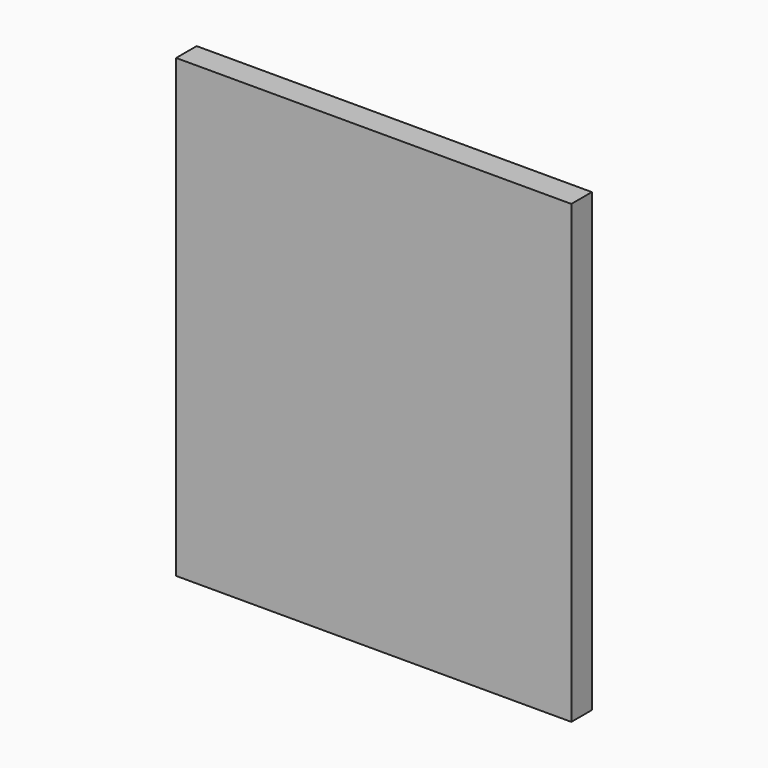
from build123d import *

# Parameters (mm, degrees)
F0_W     = 97.756576
F0_H     = 112.796054
F1_DEPTH = 6.35


with BuildPart() as f1:
    # F0 (on Front) → F1 (new body)
    with BuildSketch(Plane.XZ):
        with Locations((-2e-06, 0)):
            Rectangle(F0_W, F0_H)
    extrude(amount=F1_DEPTH)


solid = f1.part
